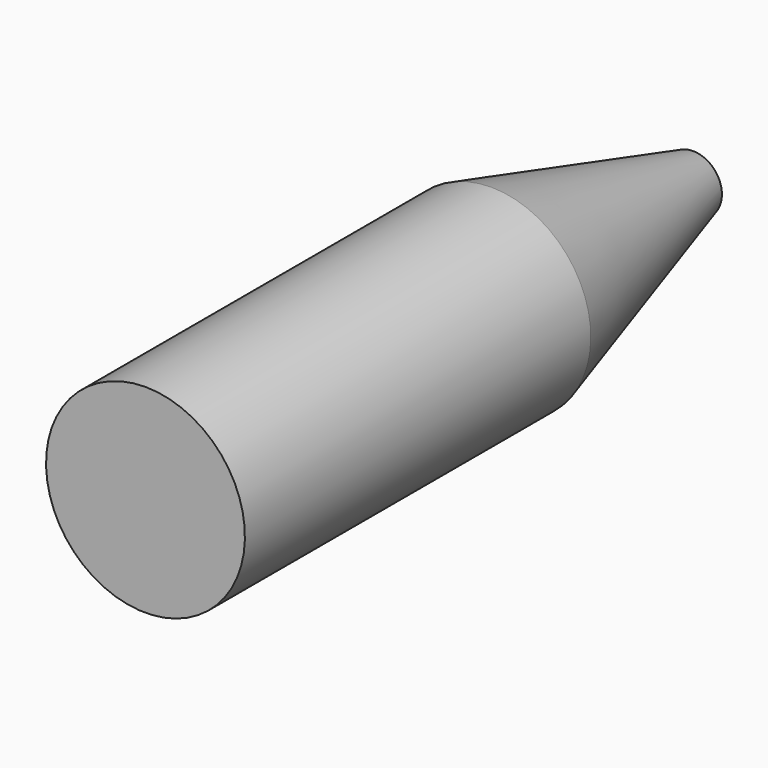
from build123d import *


with BuildPart() as f1:
    # F0 (on Right) → F1 (revolve)
    with BuildSketch(Plane.YZ):
        Polygon((0, 69), (0, 0), (475, 0), (475, 20), (300, 69), align=None)
    revolve(axis=Axis((0, 237.5, 0), (0, 1, 0)))


solid = f1.part
